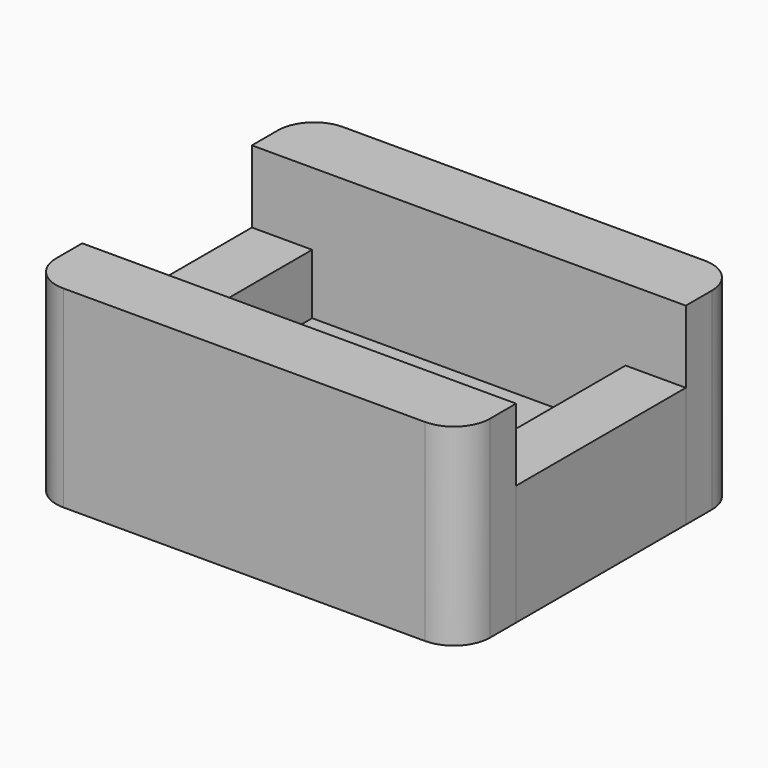
from build123d import *

# Parameters (mm, degrees)
F0_W     = 13
F0_H     = 8.8
F0_R     = 3.35
F1_DEPTH = 2.5
F0_W_2   = 2.5
F2_DEPTH = 5
F3_DEPTH = 8


with BuildPart() as f1:
    # F0 (on Top) → F1 (new body)
    with BuildSketch(Plane.XY):
        Rectangle(F0_W, F0_H)
        Circle(F0_R, mode=Mode.SUBTRACT)
        Rectangle(F0_W, F0_H)
        Circle(F0_R, mode=Mode.SUBTRACT)
    extrude(amount=F1_DEPTH)

    # F0 (on Top) → F2 (join)
    with BuildSketch(Plane.XY):
        with BuildLine():
            Line((7.5, 7.25), (-7.5, 7.25))
            ThreePointArc((-7.5, 7.25), (-8.56066, 6.81066), (-9, 5.75))
            Line((-9, 5.75), (-9, 4.4))
            Line((-9, 4.4), (-6.5, 4.4))
            Line((-6.5, 4.4), (6.5, 4.4))
            Line((6.5, 4.4), (9, 4.4))
            Line((9, 4.4), (9, 5.75))
            ThreePointArc((9, 5.75), (8.56066, 6.81066), (7.5, 7.25))
        make_face()
        with Locations((-7.75, 0)):
            Rectangle(F0_W_2, F0_H)
        with Locations((7.75, 0)):
            Rectangle(F0_W_2, F0_H)
        with BuildLine():
            Line((-6.5, -4.4), (-9, -4.4))
            Line((-9, -4.4), (-9, -5.75))
            ThreePointArc((-9, -5.75), (-8.56066, -6.81066), (-7.5, -7.25))
            Line((-7.5, -7.25), (7.5, -7.25))
            ThreePointArc((7.5, -7.25), (8.56066, -6.81066), (9, -5.75))
            Line((9, -5.75), (9, -4.4))
            Line((9, -4.4), (6.5, -4.4))
            Line((6.5, -4.4), (-6.5, -4.4))
        make_face()
    extrude(amount=F2_DEPTH)


with BuildPart() as f3:
    # F0 (on Top) → F3 (new body)
    with BuildSketch(Plane.XY):
        with BuildLine():
            Line((7.5, 7.25), (-7.5, 7.25))
            ThreePointArc((-7.5, 7.25), (-8.56066, 6.81066), (-9, 5.75))
            Line((-9, 5.75), (-9, 4.4))
            Line((-9, 4.4), (-6.5, 4.4))
            Line((-6.5, 4.4), (6.5, 4.4))
            Line((6.5, 4.4), (9, 4.4))
            Line((9, 4.4), (9, 5.75))
            ThreePointArc((9, 5.75), (8.56066, 6.81066), (7.5, 7.25))
        make_face()
        with BuildLine():
            Line((-6.5, -4.4), (-9, -4.4))
            Line((-9, -4.4), (-9, -5.75))
            ThreePointArc((-9, -5.75), (-8.56066, -6.81066), (-7.5, -7.25))
            Line((-7.5, -7.25), (7.5, -7.25))
            ThreePointArc((7.5, -7.25), (8.56066, -6.81066), (9, -5.75))
            Line((9, -5.75), (9, -4.4))
            Line((9, -4.4), (6.5, -4.4))
            Line((6.5, -4.4), (-6.5, -4.4))
        make_face()
    extrude(amount=F3_DEPTH)


solid = Compound([f1.part, f3.part])
